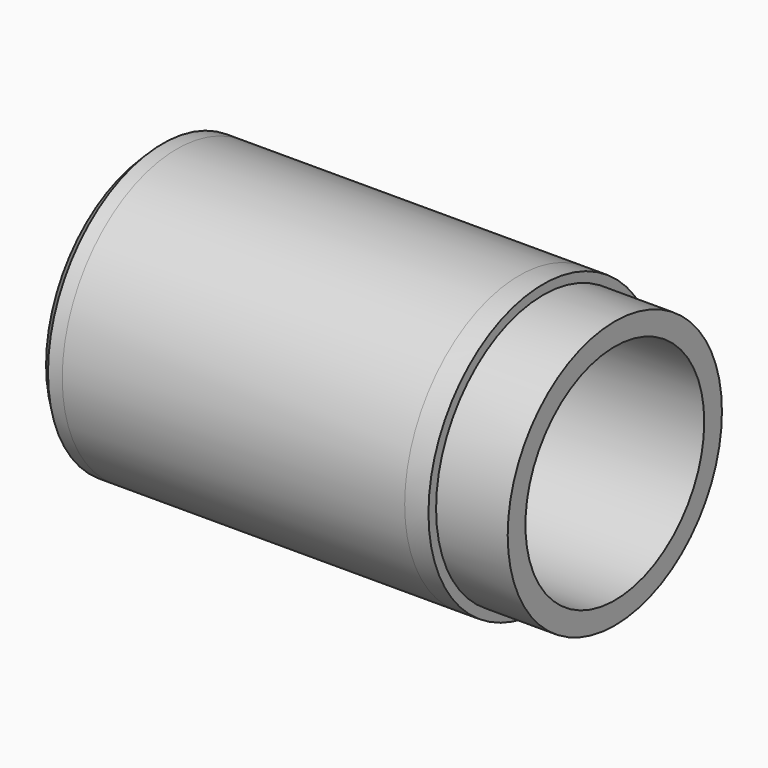
from build123d import *

# Parameters (mm, degrees)
F3_SIZE = 2


with BuildPart() as f1:
    # F0 (on Top) → F1 (revolve)
    with BuildSketch(Plane.XY):
        Polygon((95.7488511355, 85.2385589326), (95.7488511355, 68.0885589326), (110.7488511355, 68.0885589326), (110.7488511355, 73.5885589326), (105.7488511355, 73.5885589326), (105.7488511355, 85.2385589326), align=None)
    revolve(axis=Axis((39.9243277874, 58.0885589326, 0), (1, 0, 0)))


with BuildPart() as f1b:
    # F0 (on Top) → F1, piece 2 (revolve)
    with BuildSketch(Plane.XY):
        Polygon((135.7488511355, 88.2385589326), (130.7488511355, 88.2385589326), (130.7488511355, 86.2385589326), (106.7488511355, 86.2385589326), (106.7488511355, 76.5885589326), (110.7488511355, 76.5885589326), (110.7488511355, 81.5885589326), (135.7488511355, 81.5885589326), (150.8092582226, 81.5885589326), (150.8092582226, 86.2385589326), (135.7488511355, 86.2385589326), align=None)
    revolve(axis=Axis((39.9243277874, 58.0885589326, 0), (1, 0, 0)))


with BuildPart() as f1c:
    # F0 (on Top) → F1, piece 3 (revolve)
    with BuildSketch(Plane.XY):
        Polygon((58.7488511355, 88.2385589326), (53.7488511355, 88.2385589326), (53.7488511355, 81.5885589326), (78.7488511355, 81.5885589326), (78.7488511355, 76.5885589326), (82.7488511355, 76.5885589326), (82.7488511355, 86.2385589326), (58.7488511355, 86.2385589326), align=None)
    revolve(axis=Axis((39.9243277874, 58.0885589326, 0), (1, 0, 0)))

    # F3
    f3_edges = [f1c.edges().sort_by_distance(p)[0] for p in [
        (53.748851, 27.938559, 0),
    ]]
    chamfer(f3_edges, length=F3_SIZE)


with BuildPart() as f1d:
    # F0 (on Top) → F1, piece 4 (revolve)
    with BuildSketch(Plane.XY):
        Polygon((78.7488511355, 73.5885589326), (78.7488511355, 68.0885589326), (93.7488511355, 68.0885589326), (93.7488511355, 85.2385589326), (83.7488511355, 85.2385589326), (83.7488511355, 73.5885589326), align=None)
    revolve(axis=Axis((39.9243277874, 58.0885589326, 0), (1, 0, 0)))


with BuildPart() as f2:
    # F0 (on Top) → F2 (revolve)
    with BuildSketch(Plane.XY):
        Polygon((130.7488511355, 88.2385589326), (58.7488511355, 88.2385589326), (58.7488511355, 86.2385589326), (82.7488511355, 86.2385589326), (106.7488511355, 86.2385589326), (130.7488511355, 86.2385589326), align=None)
    revolve(axis=Axis((39.9243277874, 58.0885589326, 0), (1, 0, 0)))


with BuildPart() as f4:
    # F0 (on Top) → F4 (revolve)
    with BuildSketch(Plane.XY):
        Polygon((53.7488511355, 80.5885589326), (53.7488511355, 70.0885589326), (58.7488511355, 70.0885589326), (58.7488511355, 75.5808874965), (57.7488511355, 75.5808874965), (57.7488511355, 80.5885589326), align=None)
    revolve(axis=Axis((39.9243277874, 58.0885589326, 0), (1, 0, 0)))


solid = Compound([f1.part, f1b.part, f1c.part, f1d.part, f2.part, f4.part])
